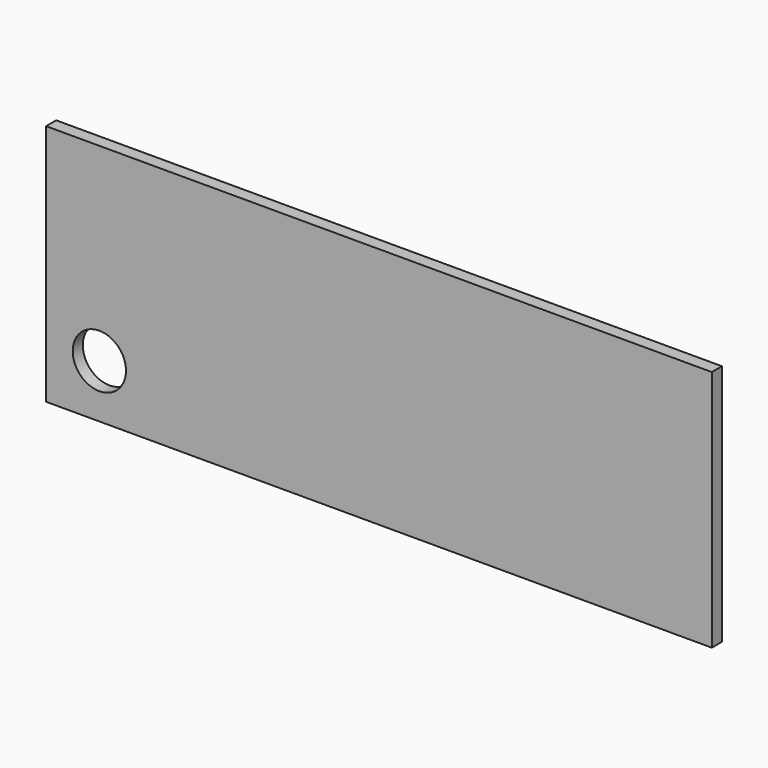
from build123d import *

# Parameters (mm, degrees)
F1_W     = 1000
F1_H     = 364.5
F1_R     = 40
F2_DEPTH = 19


with BuildPart() as f2:
    # F1 (on Front) → F2 (new body)
    with BuildSketch(Plane.XZ):
        with Locations((500, 207.25)):
            Rectangle(F1_W, F1_H)
        with Locations((80, 105)):
            Circle(F1_R, mode=Mode.SUBTRACT)
    extrude(amount=F2_DEPTH)


with BuildPart() as f2_1:
    # F3: moved
    add(f2.part.moved(Location((0, 0, -25))))


solid = f2_1.part
